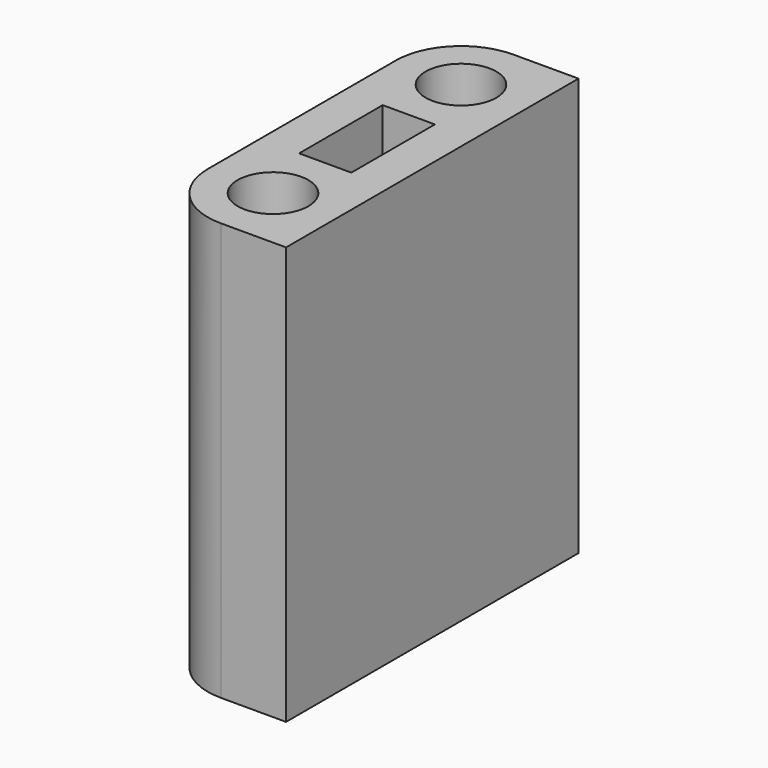
from build123d import *

# Parameters (mm, degrees)
F0_W     = 7.9375
F0_H     = 22.225
F0_W_2   = 3.175
F0_H_2   = 6.35
F1_DEPTH = 25.4
F2_R     = 2.15265
F3_DEPTH = 25.4
F4_R     = 3.96875


with BuildPart() as f1:
    # F0 (on Top) → F1 (new body)
    with BuildSketch(Plane.XY):
        Rectangle(F0_W, F0_H)
        Rectangle(F0_W_2, F0_H_2, mode=Mode.SUBTRACT)
    extrude(amount=F1_DEPTH)

    # F2 (on face) → F3 (cut, through all)
    with BuildSketch(Plane.XY.offset(25.4)):
        with Locations((0, 7.14375)):
            Circle(F2_R)
        with Locations((0, -7.14375)):
            Circle(F2_R)
    extrude(amount=-F3_DEPTH, mode=Mode.SUBTRACT)

    # F4
    f4_edges = [f1.edges().sort_by_distance(p)[0] for p in [
        (-3.96875, -11.1125, 12.7),
        (-3.96875, 11.1125, 12.7),
    ]]
    fillet(f4_edges, radius=F4_R)


solid = f1.part
